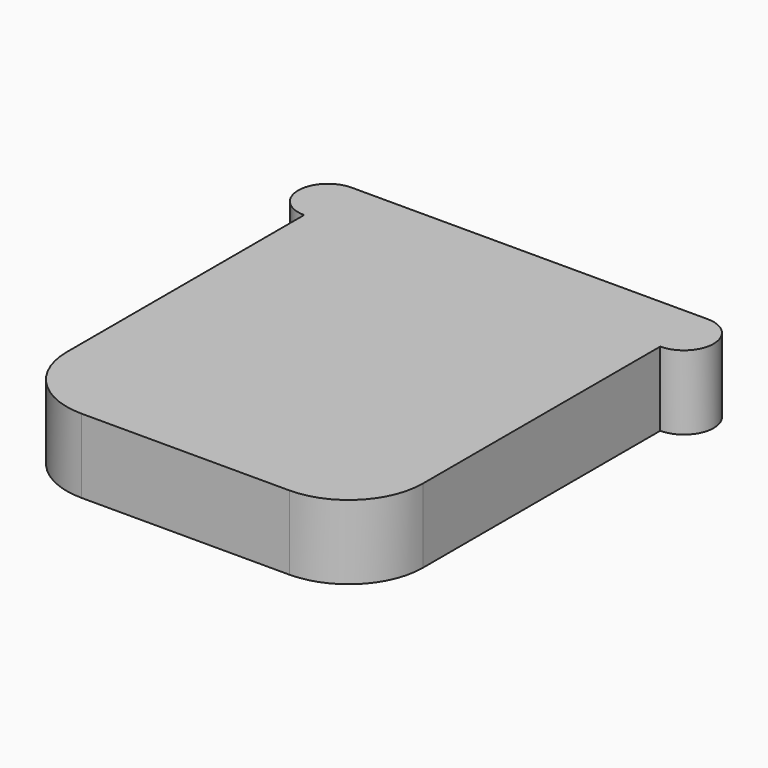
from build123d import *

# Parameters (mm, degrees)
F0_W     = 4.8
F0_H     = 5
F1_DEPTH = 1
F2_R     = 1


with BuildPart() as f1:
    # F0 (on Top) → F1 (new body)
    with BuildSketch(Plane.XY):
        with BuildLine():
            Line((-2.4, 2.5), (2.4, 2.5))
            ThreePointArc((2.4, 2.5), (2.8, 2.9), (2.4, 3.3))
            Line((2.4, 3.3), (0, 3.3))
            Line((0, 3.3), (-2.4, 3.3))
            ThreePointArc((-2.4, 3.3), (-2.8, 2.9), (-2.4, 2.5))
        make_face()
        Rectangle(F0_W, F0_H)
    extrude(amount=F1_DEPTH)

    # F2
    f2_edges = [f1.edges().sort_by_distance(p)[0] for p in [
        (-2.4, -2.5, 0.5),
        (2.4, -2.5, 0.5),
    ]]
    fillet(f2_edges, radius=F2_R)


solid = f1.part
